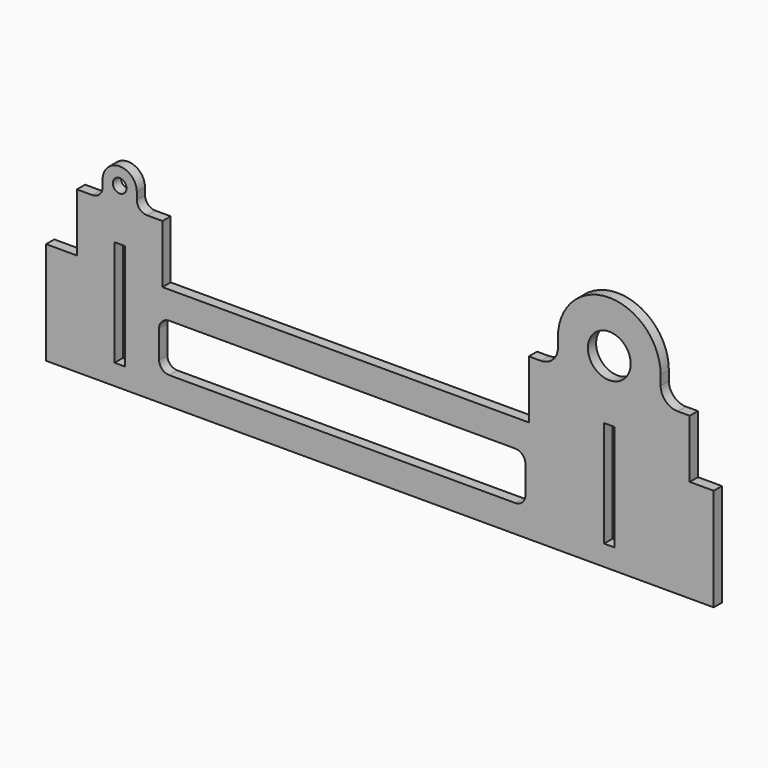
from build123d import *

# Parameters (mm, degrees)
F0_W     = 3
F0_H     = 31
F0_R     = 2
F0_R_2   = 6.25
F1_DEPTH = 3


with BuildPart() as f1:
    # F0 (on Front) → F1 (new body)
    with BuildSketch(Plane.XZ):
        with BuildLine():
            Line((-97.5, -15), (97.5, -15))
            Line((97.5, -15), (97.5, 15))
            Line((97.5, 15), (90.5, 15))
            Line((90.5, 15), (90.5, 32))
            Line((90.5, 32), (87, 32))
            ThreePointArc((87, 32), (83.464466, 33.464466), (82, 37))
            Line((82, 37), (82, 39.75))
            ThreePointArc((82, 39.75), (67, 54.75), (52, 39.75))
            Line((52, 39.75), (52, 37))
            ThreePointArc((52, 37), (50.535534, 33.464466), (47, 32))
            Line((47, 32), (43.5, 32))
            Line((43.5, 32), (43.5, 15))
            Line((43.5, 15), (-63.5, 15))
            Line((-63.5, 15), (-63.5, 32))
            Line((-63.5, 32), (-68, 32))
            ThreePointArc((-68, 32), (-70.12132, 32.87868), (-71, 35))
            Line((-71, 35), (-71, 37))
            ThreePointArc((-71, 37), (-76, 42), (-81, 37))
            Line((-81, 37), (-81, 35))
            ThreePointArc((-81, 35), (-81.87868, 32.87868), (-84, 32))
            Line((-84, 32), (-88.5, 32))
            Line((-88.5, 32), (-88.5, 15))
            Line((-88.5, 15), (-97.5, 15))
            Line((-97.5, 15), (-97.5, -15))
        make_face()
        with BuildLine():
            ThreePointArc((-64.5, 4), (-63.62132, 6.12132), (-61.5, 7))
            Line((-61.5, 7), (39.5, 7))
            ThreePointArc((39.5, 7), (41.62132, 6.12132), (42.5, 4))
            Line((42.5, 4), (42.5, -4))
            ThreePointArc((42.5, -4), (41.62132, -6.12132), (39.5, -7))
            Line((39.5, -7), (-61.5, -7))
            ThreePointArc((-61.5, -7), (-63.62132, -6.12132), (-64.5, -4))
            Line((-64.5, -4), (-64.5, 4))
        make_face(mode=Mode.SUBTRACT)
        with Locations((-76, 6.5)):
            Rectangle(F0_W, F0_H, mode=Mode.SUBTRACT)
        with Locations((67, 6.5)):
            Rectangle(F0_W, F0_H, mode=Mode.SUBTRACT)
        with Locations((-76, 37)):
            Circle(F0_R, mode=Mode.SUBTRACT)
        with Locations((67, 39.75)):
            Circle(F0_R_2, mode=Mode.SUBTRACT)
    extrude(amount=F1_DEPTH)


solid = f1.part
